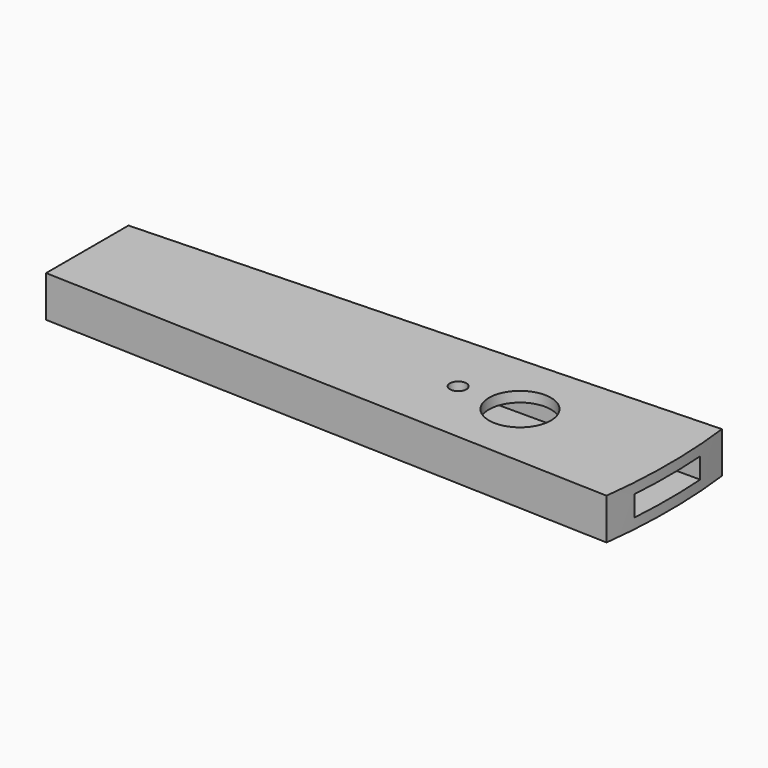
from build123d import *

# Parameters (mm, degrees)
F0_R     = 7.5
F1_DEPTH = 10
F2_W     = 20
F2_H     = 5
F3_DEPTH = 200
F4_R     = 7.5
F5_DEPTH = 2.5
F6_R     = 2
F7_DEPTH = 10


with BuildPart() as f1:
    # F0 (on Top) → F1 (new body)
    with BuildSketch(Plane.XY):
        with BuildLine():
            Line((70, 17.5), (-70, 12.5))
            Line((-70, 12.5), (-70, -12.5))
            Line((-70, -12.5), (70, -17.5))
            ThreePointArc((70, -17.5), (71.089511, 0), (70, 17.5))
        make_face()
        with Locations((35, 0)):
            Circle(F0_R, mode=Mode.SUBTRACT)
        with Locations((35, 0)):
            Circle(F0_R)
    extrude(amount=F1_DEPTH)

    # F2 (on face) → F3 (cut)
    with BuildSketch(Plane(origin=(-70, 0, 0), x_dir=(0, -1, 0), z_dir=(-1, 0, 0))):
        with Locations((0, 5)):
            Rectangle(F2_W, F2_H)
    extrude(amount=-F3_DEPTH, mode=Mode.SUBTRACT)

    # F4 (on face) → F5 (cut)
    with BuildSketch(Plane.XY.offset(10)):
        with Locations((35, 0)):
            Circle(F4_R)
    extrude(amount=-F5_DEPTH, mode=Mode.SUBTRACT)

    # F6 (on face) → F7 (cut)
    with BuildSketch(Plane.XY.offset(10)):
        with Locations((20, 0)):
            Circle(F6_R)
    extrude(amount=-F7_DEPTH, mode=Mode.SUBTRACT)


solid = f1.part
